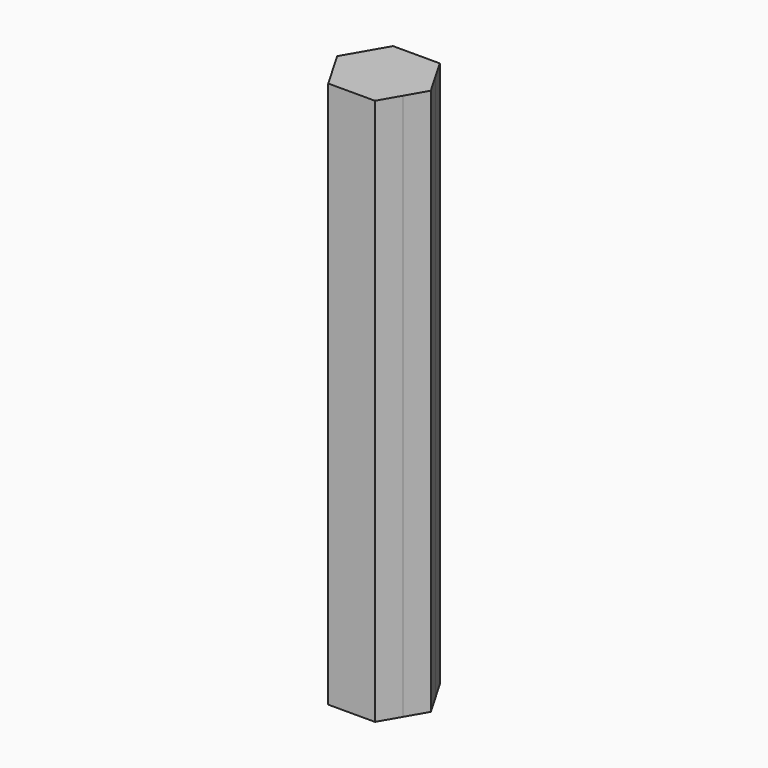
from build123d import *

# Parameters (mm, degrees)
F1_DEPTH = 85.725


with BuildPart() as f1:
    # F0 (on Top) → F1 (new body)
    with BuildSketch(Plane.XY):
        with BuildLine():
            ThreePointArc((5.4992612751, -3.1750000674), (6.1336289869, -1.643500974), (6.35, 0))
            ThreePointArc((6.35, 0), (6.1336289976, 1.6435009339), (5.4992613166, 3.1749999956))
            ThreePointArc((5.4992613166, 3.1749999956), (3.1750000022, 5.4992613128), (0, 6.35))
            ThreePointArc((0, 6.35), (-3.175000032, 5.4992612955), (-5.499261351, 3.174999936))
            ThreePointArc((-5.499261351, 3.174999936), (-6.35, 0), (-5.499261351, -3.174999936))
            ThreePointArc((-5.499261351, -3.174999936), (-3.175000032, -5.4992612955), (0, -6.35))
            ThreePointArc((0, -6.35), (3.1749999663, -5.4992613335), (5.4992612751, -3.1750000674))
        make_face()
        with BuildLine():
            ThreePointArc((5.4992613166, 3.1749999956), (6.1336289976, 1.6435009339), (6.35, 0))
            ThreePointArc((6.35, 0), (6.1336289869, -1.643500974), (5.4992612751, -3.1750000674))
            Line((5.4992612751, -3.1750000674), (7.3323484187, 0))
            Line((7.3323484187, 0), (5.4992613166, 3.1749999956))
        make_face()
        with BuildLine():
            ThreePointArc((0, 6.35), (3.1750000022, 5.4992613128), (5.4992613166, 3.1749999956))
            Line((5.4992613166, 3.1749999956), (3.6661742094, 6.35))
            Line((3.6661742094, 6.35), (0, 6.35))
        make_face()
        with BuildLine():
            Line((3.6661742094, -6.35), (5.4992612751, -3.1750000674))
            ThreePointArc((5.4992612751, -3.1750000674), (3.1749999663, -5.4992613335), (0, -6.35))
            Line((0, -6.35), (3.6661742094, -6.35))
        make_face()
        with BuildLine():
            ThreePointArc((-5.499261351, 3.174999936), (-3.175000032, 5.4992612955), (0, 6.35))
            Line((0, 6.35), (-3.6661742094, 6.35))
            Line((-3.6661742094, 6.35), (-5.499261351, 3.174999936))
        make_face()
        with BuildLine():
            Line((-3.6661742094, -6.35), (0, -6.35))
            ThreePointArc((0, -6.35), (-3.175000032, -5.4992612955), (-5.499261351, -3.174999936))
            Line((-5.499261351, -3.174999936), (-3.6661742094, -6.35))
        make_face()
        with BuildLine():
            ThreePointArc((-5.499261351, -3.174999936), (-6.35, 0), (-5.499261351, 3.174999936))
            Line((-5.499261351, 3.174999936), (-7.3323484187, 0))
            Line((-7.3323484187, 0), (-5.499261351, -3.174999936))
        make_face()
    extrude(amount=F1_DEPTH)


solid = f1.part
